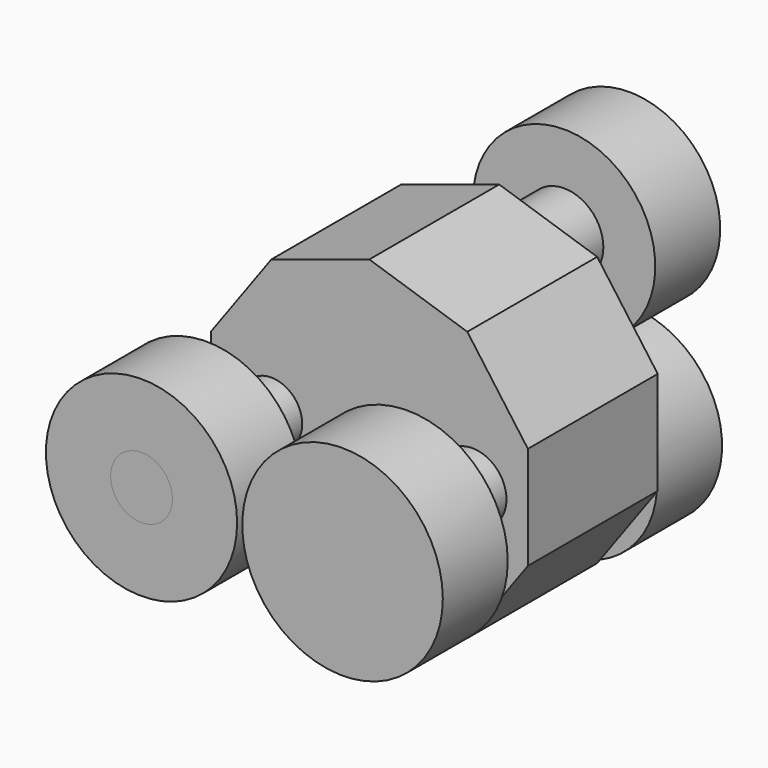
from build123d import *

# Parameters (mm, degrees)
F1_DEPTH  = 25.4
F2_R      = 4.834523
F2_R_2    = 5.335441
F3_DEPTH  = 25.4
F4_R      = 6.139989
F4_R_2    = 6.885699
F5_DEPTH  = 50.8
F6_R      = 14.961829
F6_R_2    = 4.834523
F7_DEPTH  = 12.7
F8_R      = 15.690781
F8_R_2    = 5.335441
F9_DEPTH  = 12.7
F10_R     = 14.265348
F10_R_2   = 6.139989
F11_DEPTH = 12.7
F12_R     = 14.562262
F12_R_2   = 6.885699
F13_DEPTH = 12.7


with BuildPart() as f1:
    # F0 (on Front) → F1 (new body)
    with BuildSketch(Plane.XZ):
        Polygon((-24.809303, 8.061031), (-24.809303, -8.061031), (-15.332992, -21.104053), (0, -26.086045), (15.332992, -21.104053), (24.809303, -8.061031), (24.809303, 8.061031), (15.332992, 21.104053), (0, 26.086045), (-15.332992, 21.104053), align=None)
    extrude(amount=F1_DEPTH)

    # F2 (on face) → F3 (join)
    with BuildSketch(Plane.XZ.offset(25.4)):
        with Locations((-15.332992, 0)):
            Circle(F2_R)
        with Locations((16.126046, 0)):
            Circle(F2_R_2)
    extrude(amount=F3_DEPTH)

    # F4 (on face) → F5 (join)
    with BuildSketch(Plane.XZ.offset(25.4)):
        with Locations((0, 14.265348)):
            Circle(F4_R)
        with Locations((0, -15.505814)):
            Circle(F4_R_2)
    extrude(amount=-F5_DEPTH)

    # F8 (on face) → F9 (join)
    with BuildSketch(Plane.XZ.offset(50.8)):
        with Locations((16.126046, 0)):
            Circle(F8_R)
        with Locations((16.126046, 0)):
            Circle(F8_R_2, mode=Mode.SUBTRACT)
    extrude(amount=-F9_DEPTH)

    # F10 (on face) → F11 (join)
    with BuildSketch(Plane(origin=(0, 25.4, 0), x_dir=(-1, 0, 0), z_dir=(0, 1, 0))):
        with Locations((0, 14.265348)):
            Circle(F10_R)
        with Locations((0, 14.265348)):
            Circle(F10_R_2, mode=Mode.SUBTRACT)
    extrude(amount=-F11_DEPTH)

    # F12 (on face) → F13 (join)
    with BuildSketch(Plane(origin=(0, 25.4, 0), x_dir=(-1, 0, 0), z_dir=(0, 1, 0))):
        with Locations((0, -15.505814)):
            Circle(F12_R)
        with Locations((0, -15.505814)):
            Circle(F12_R_2, mode=Mode.SUBTRACT)
    extrude(amount=-F13_DEPTH)


with BuildPart() as f7:
    # F6 (on face) → F7 (new body)
    with BuildSketch(Plane.XZ.offset(50.8)):
        with Locations((-15.332992, 0)):
            Circle(F6_R)
        with Locations((-15.332992, 0)):
            Circle(F6_R_2, mode=Mode.SUBTRACT)
    extrude(amount=-F7_DEPTH)


solid = Compound([f1.part, f7.part])
